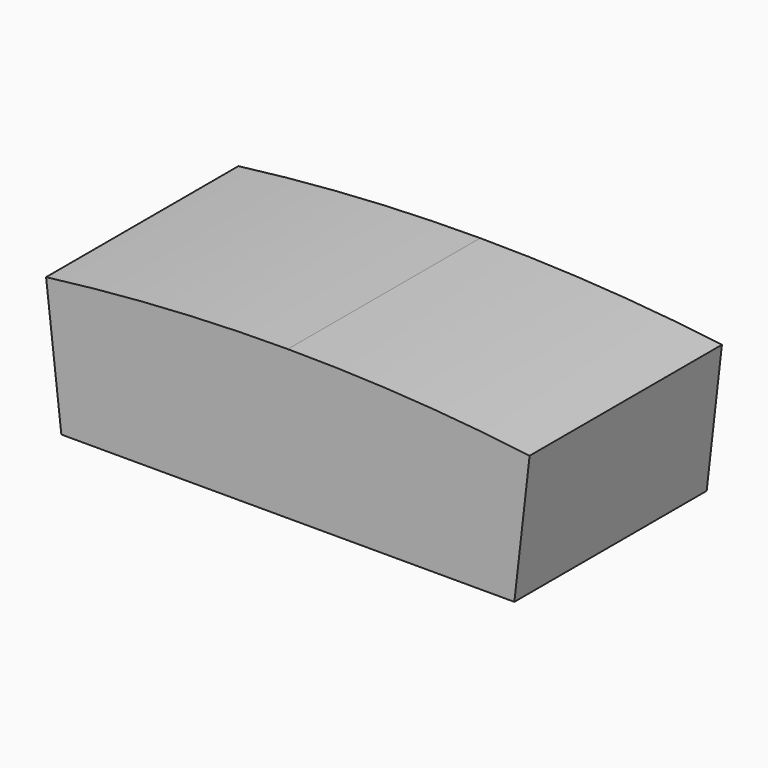
from build123d import *

# Parameters (mm, degrees)
F1_DEPTH = 78.8


with BuildPart() as f1:
    # F0 (on Front) → F1 (new body)
    with BuildSketch(Plane.XZ):
        with BuildLine():
            Line((-62.92016, 6.494325), (-57.92016, -37.305675))
            Line((-57.92016, -37.305675), (90.57984, -37.305675))
            Line((90.57984, -37.305675), (95.57984, 6.494325))
            ThreePointArc((95.57984, 6.494325), (56.033626, 10.243084), (16.32984, 11.494325))
            ThreePointArc((16.32984, 11.494325), (-23.373946, 10.243084), (-62.92016, 6.494325))
        make_face()
    extrude(amount=F1_DEPTH)


solid = f1.part
